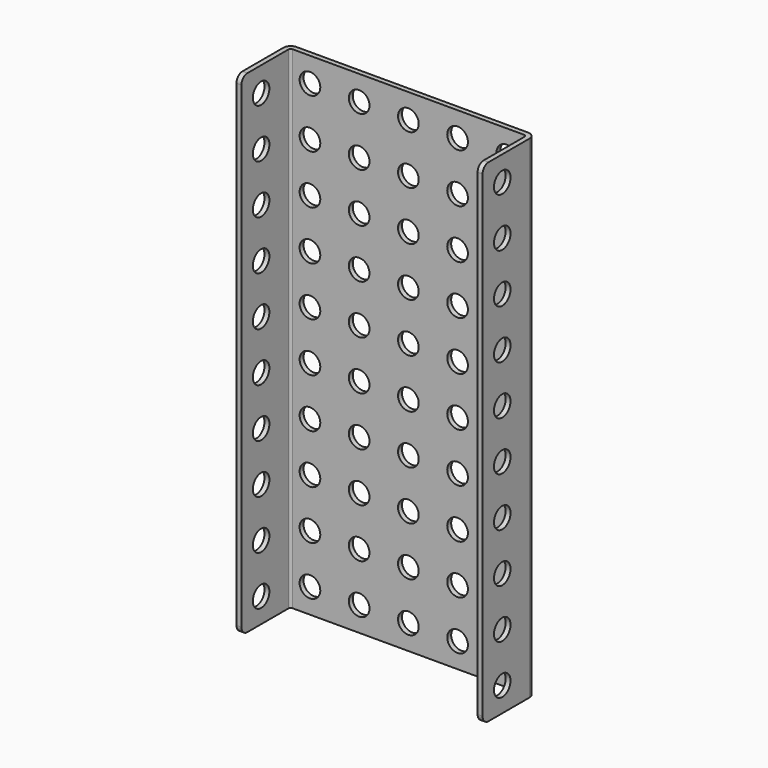
from build123d import *

# Parameters (mm, degrees)
PAD_DEPTH       = 100
FILLET_R        = 1.5
FILLET001_R     = 1.5
FILLET002_R     = 1.5
FILLET003_R     = 1.5
SKETCH001_R     = 2.1
POCKET_DEPTH    = 50.001
SKETCH002_R     = 2.1
POCKET001_DEPTH = 13.401


with BuildPart() as part:
    # Sketch → Pad (new body)
    with BuildSketch(Plane.XY):
        with BuildLine():
            Line((0, 0), (0, 11.9))
            ThreePointArc((1.5, 13.4), (0.43934, 12.96066), (0, 11.9))
            Line((1.5, 13.4), (48.5, 13.4))
            ThreePointArc((50, 11.9), (49.56066, 12.96066), (48.5, 13.4))
            Line((50, 11.9), (50, 0))
            Line((49, 0), (50, 0))
            Line((49, 11.9), (49, 0))
            ThreePointArc((49, 11.9), (48.853553, 12.253553), (48.5, 12.4))
            Line((1.5, 12.4), (48.5, 12.4))
            ThreePointArc((1.5, 12.4), (1.146447, 12.253553), (1, 11.9))
            Line((1, 0), (1, 11.9))
            Line((0, 0), (1, 0))
        make_face()
    extrude(amount=PAD_DEPTH)

    # Fillet
    fillet_edges = [part.edges().sort_by_distance(p)[0] for p in [
        (49.5, 0, 0),
    ]]
    fillet(fillet_edges, radius=FILLET_R)

    # Fillet001
    fillet001_edges = [part.edges().sort_by_distance(p)[0] for p in [
        (0.5, 0, 0),
    ]]
    fillet(fillet001_edges, radius=FILLET001_R)

    # Fillet002
    fillet002_edges = [part.edges().sort_by_distance(p)[0] for p in [
        (49.5, 0, 100),
    ]]
    fillet(fillet002_edges, radius=FILLET002_R)

    # Fillet003
    fillet003_edges = [part.edges().sort_by_distance(p)[0] for p in [
        (0.5, 0, 100),
    ]]
    fillet(fillet003_edges, radius=FILLET003_R)

    # Sketch001 → Pocket (cut, through all)
    with BuildSketch(Plane(origin=(0, 0, 0), x_dir=(0, -1, 0), z_dir=(-1, 0, 0))):
        with Locations((-5, 5)):
            Circle(SKETCH001_R)
        with Locations((-5, 15)):
            Circle(SKETCH001_R)
        with Locations((-5, 25)):
            Circle(SKETCH001_R)
        with Locations((-5, 35)):
            Circle(SKETCH001_R)
        with Locations((-5, 45)):
            Circle(SKETCH001_R)
        with Locations((-5, 55)):
            Circle(SKETCH001_R)
        with Locations((-5, 65)):
            Circle(SKETCH001_R)
        with Locations((-5, 75)):
            Circle(SKETCH001_R)
        with Locations((-5, 85)):
            Circle(SKETCH001_R)
        with Locations((-5, 95)):
            Circle(SKETCH001_R)
    extrude(amount=-POCKET_DEPTH, mode=Mode.SUBTRACT)

    # Sketch002 → Pocket001 (cut, through all)
    with BuildSketch(Plane(origin=(0, 13.4, 0), x_dir=(-1, 0, 0), z_dir=(0, 1, 0))):
        with Locations((-5, 5)):
            Circle(SKETCH002_R)
        with Locations((-15, 5)):
            Circle(SKETCH002_R)
        with Locations((-25, 5)):
            Circle(SKETCH002_R)
        with Locations((-35, 5)):
            Circle(SKETCH002_R)
        with Locations((-45, 5)):
            Circle(SKETCH002_R)
        with Locations((-45, 15)):
            Circle(SKETCH002_R)
        with Locations((-45, 25)):
            Circle(SKETCH002_R)
        with Locations((-45, 35)):
            Circle(SKETCH002_R)
        with Locations((-45, 45)):
            Circle(SKETCH002_R)
        with Locations((-45, 55)):
            Circle(SKETCH002_R)
        with Locations((-45, 65)):
            Circle(SKETCH002_R)
        with Locations((-45, 75)):
            Circle(SKETCH002_R)
        with Locations((-45, 85)):
            Circle(SKETCH002_R)
        with Locations((-45, 95)):
            Circle(SKETCH002_R)
        with Locations((-35, 15)):
            Circle(SKETCH002_R)
        with Locations((-35, 25)):
            Circle(SKETCH002_R)
        with Locations((-35, 35)):
            Circle(SKETCH002_R)
        with Locations((-35, 45)):
            Circle(SKETCH002_R)
        with Locations((-35, 55)):
            Circle(SKETCH002_R)
        with Locations((-35, 65)):
            Circle(SKETCH002_R)
        with Locations((-35, 75)):
            Circle(SKETCH002_R)
        with Locations((-35, 85)):
            Circle(SKETCH002_R)
        with Locations((-35, 95)):
            Circle(SKETCH002_R)
        with Locations((-25, 15)):
            Circle(SKETCH002_R)
        with Locations((-25, 25)):
            Circle(SKETCH002_R)
        with Locations((-25, 35)):
            Circle(SKETCH002_R)
        with Locations((-25, 45)):
            Circle(SKETCH002_R)
        with Locations((-25, 55)):
            Circle(SKETCH002_R)
        with Locations((-25, 65)):
            Circle(SKETCH002_R)
        with Locations((-25, 75)):
            Circle(SKETCH002_R)
        with Locations((-25, 85)):
            Circle(SKETCH002_R)
        with Locations((-25, 95)):
            Circle(SKETCH002_R)
        with Locations((-15, 15)):
            Circle(SKETCH002_R)
        with Locations((-15, 25)):
            Circle(SKETCH002_R)
        with Locations((-15, 35)):
            Circle(SKETCH002_R)
        with Locations((-15, 45)):
            Circle(SKETCH002_R)
        with Locations((-15, 55)):
            Circle(SKETCH002_R)
        with Locations((-15, 65)):
            Circle(SKETCH002_R)
        with Locations((-15, 75)):
            Circle(SKETCH002_R)
        with Locations((-15, 85)):
            Circle(SKETCH002_R)
        with Locations((-15, 95)):
            Circle(SKETCH002_R)
        with Locations((-5, 15)):
            Circle(SKETCH002_R)
        with Locations((-5, 25)):
            Circle(SKETCH002_R)
        with Locations((-5, 35)):
            Circle(SKETCH002_R)
        with Locations((-5, 45)):
            Circle(SKETCH002_R)
        with Locations((-5, 55)):
            Circle(SKETCH002_R)
        with Locations((-5, 65)):
            Circle(SKETCH002_R)
        with Locations((-5, 75)):
            Circle(SKETCH002_R)
        with Locations((-5, 85)):
            Circle(SKETCH002_R)
        with Locations((-5, 95)):
            Circle(SKETCH002_R)
    extrude(amount=-POCKET001_DEPTH, mode=Mode.SUBTRACT)


solid = part.part
